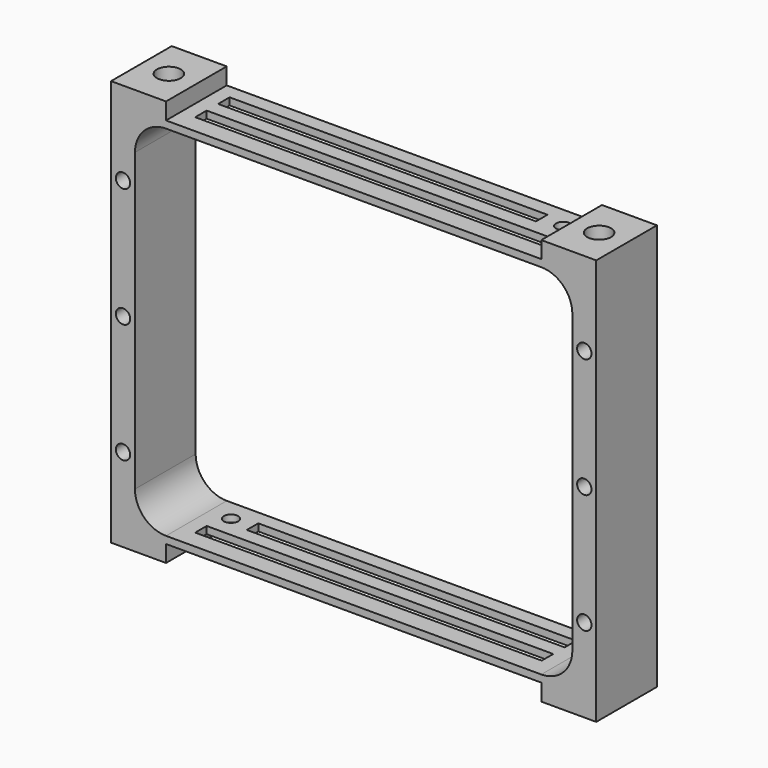
from build123d import *

# Parameters (mm, degrees)
F0_W      = 101.5
F0_H      = 85
F1_DEPTH  = 15.875
F3_DEPTH  = 25
F4_W      = 78.5
F4_H      = 15.875
F5_DEPTH  = 3.5
F6_W      = 78.5
F6_H      = 15.875
F7_DEPTH  = 3.5
F8_R      = 1.5
F8_W      = 66.5
F8_H      = 3
F8_W_2    = 72.5
F9_DEPTH  = 25
F10_W     = 72.5
F10_H     = 3
F10_W_2   = 66.5
F10_R     = 1.5
F11_DEPTH = 25
F12_R     = 2.5
F13_DEPTH = 5
F14_R     = 2.5
F15_DEPTH = 5
F16_R     = 2.5
F17_DEPTH = 5
F18_R     = 2.5
F19_DEPTH = 5
F20_R     = 1.5
F21_DEPTH = 10


with BuildPart() as f1:
    # F0 (on Front) → F1 (new body)
    with BuildSketch(Plane.XZ):
        Rectangle(F0_W, F0_H)
    extrude(amount=F1_DEPTH)

    # F2 (on face) → F3 (cut)
    with BuildSketch(Plane.XZ.offset(15.875)):
        with BuildLine():
            Line((-45.75, 31), (-45.75, -31))
            ThreePointArc((-45.75, -31), (-43.846194, -35.596194), (-39.25, -37.5))
            Line((-39.25, -37.5), (39.25, -37.5))
            ThreePointArc((39.25, -37.5), (43.846194, -35.596194), (45.75, -31))
            Line((45.75, -31), (45.75, 31))
            ThreePointArc((45.75, 31), (43.846194, 35.596194), (39.25, 37.5))
            Line((39.25, 37.5), (-39.25, 37.5))
            ThreePointArc((-39.25, 37.5), (-43.846194, 35.596194), (-45.75, 31))
        make_face()
    extrude(amount=-F3_DEPTH, mode=Mode.SUBTRACT)

    # F4 (on face) → F5 (cut)
    with BuildSketch(Plane.XY.offset(42.5)):
        with Locations((0, -7.9375)):
            Rectangle(F4_W, F4_H)
    extrude(amount=-F5_DEPTH, mode=Mode.SUBTRACT)

    # F6 (on face) → F7 (cut)
    with BuildSketch(Plane(origin=(0, 0, -42.5), x_dir=(1, 0, 0), z_dir=(0, 0, -1))):
        with Locations((0, 7.9375)):
            Rectangle(F6_W, F6_H)
    extrude(amount=-F7_DEPTH, mode=Mode.SUBTRACT)

    # F8 (on face) → F9 (cut)
    with BuildSketch(Plane.XY.offset(39)):
        with Locations((34.75, -4.5)):
            Circle(F8_R)
        with Locations((-3, -4.5)):
            Rectangle(F8_W, F8_H)
        with Locations((0, -10.5)):
            Rectangle(F8_W_2, F8_H)
    extrude(amount=-F9_DEPTH, mode=Mode.SUBTRACT)

    # F10 (on face) → F11 (cut)
    with BuildSketch(Plane(origin=(0, 0, -39), x_dir=(1, 0, 0), z_dir=(0, 0, -1))):
        with Locations((0, 10.5)):
            Rectangle(F10_W, F10_H)
        with Locations((3, 4.5)):
            Rectangle(F10_W_2, F10_H)
        with Locations((-34.75, 4.5)):
            Circle(F10_R)
    extrude(amount=-F11_DEPTH, mode=Mode.SUBTRACT)

    # F12 (on face) → F13 (cut)
    with BuildSketch(Plane(origin=(0, 0, -42.5), x_dir=(1, 0, 0), z_dir=(0, 0, -1))):
        with Locations((-45, 7.9375)):
            Circle(F12_R)
    extrude(amount=-F13_DEPTH, mode=Mode.SUBTRACT)

    # F14 (on face) → F15 (cut)
    with BuildSketch(Plane(origin=(0, 0, -42.5), x_dir=(1, 0, 0), z_dir=(0, 0, -1))):
        with Locations((45, 7.9375)):
            Circle(F14_R)
    extrude(amount=-F15_DEPTH, mode=Mode.SUBTRACT)

    # F16 (on face) → F17 (cut)
    with BuildSketch(Plane.XY.offset(42.5)):
        with Locations((-45, -7.9375)):
            Circle(F16_R)
    extrude(amount=-F17_DEPTH, mode=Mode.SUBTRACT)

    # F18 (on face) → F19 (cut)
    with BuildSketch(Plane.XY.offset(42.5)):
        with Locations((45, -7.9375)):
            Circle(F18_R)
    extrude(amount=-F19_DEPTH, mode=Mode.SUBTRACT)

    # F20 (on face) → F21 (cut)
    with BuildSketch(Plane.XZ.offset(15.875)):
        with Locations((-48.25, 25)):
            Circle(F20_R)
        with Locations((-48.25, 0)):
            Circle(F20_R)
        with Locations((-48.25, -25)):
            Circle(F20_R)
        with Locations((48.25, -25)):
            Circle(F20_R)
        with Locations((48.25, 0)):
            Circle(F20_R)
        with Locations((48.25, 25)):
            Circle(F20_R)
    extrude(amount=-F21_DEPTH, mode=Mode.SUBTRACT)


solid = f1.part
